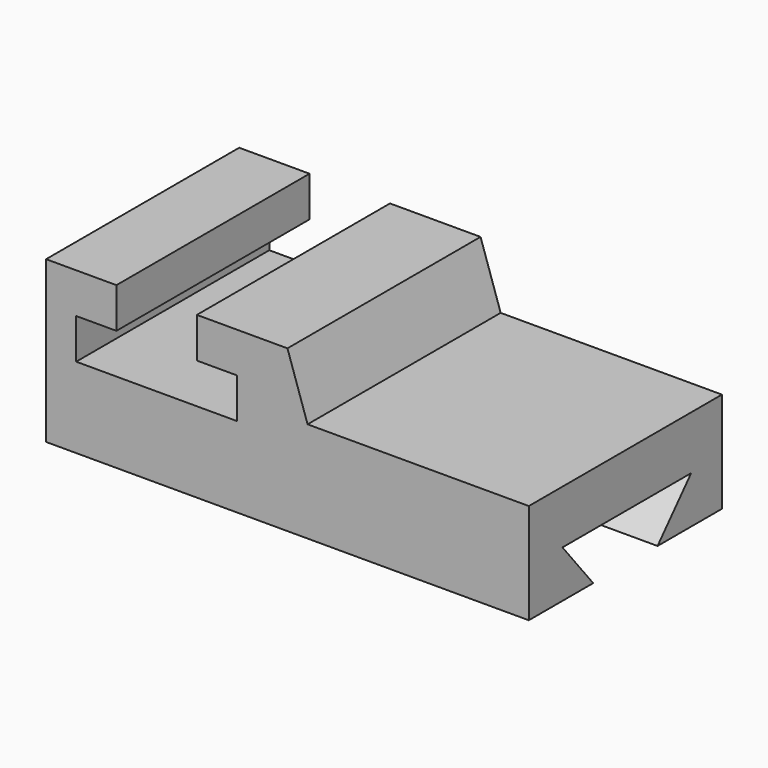
from build123d import *

# Parameters (mm, degrees)
F1_DEPTH = 76.2
F3_DEPTH = 76.2
F5_DEPTH = 25.4


with BuildPart() as f1:
    # F0 (on Front) → F1 (new body)
    with BuildSketch(Plane.XZ):
        Polygon((35.288685, 50.8), (35.288685, 0), (187.688685, 0), (187.688685, 31.75), (117.838685, 31.75), (111.488685, 50.8), align=None)
    extrude(amount=F1_DEPTH)

    # F2 (on face) → F3 (cut)
    with BuildSketch(Plane.XZ.offset(76.2)):
        Polygon((82.892604, 50.8), (57.492604, 50.8), (57.492604, 38.1), (44.792604, 38.1), (44.792604, 25.4), (95.592604, 25.4), (95.592604, 38.1), (82.892604, 38.1), align=None)
    extrude(amount=-F3_DEPTH, mode=Mode.SUBTRACT)

    # F4 (on face) → F5 (cut)
    with BuildSketch(Plane.YZ.offset(187.688685)):
        Polygon((-62.926312, 14.859), (-50.8, 0), (-25.4, 0), (-12.126312, 14.859), align=None)
    extrude(amount=-F5_DEPTH, mode=Mode.SUBTRACT)


solid = f1.part
